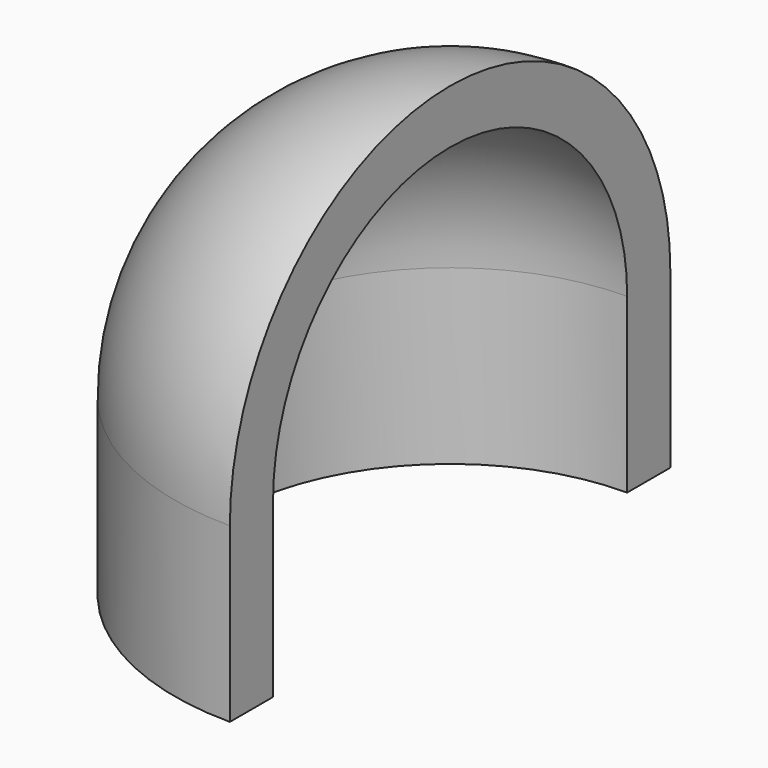
from build123d import *

# Parameters (mm, degrees)
F1_DEPTH      = 12.7
F3_ANGLE_BACK = 90
F3_ANGLE      = 180


with BuildPart() as f1:
    # F0 (on Top) → F1 (new body)
    with BuildSketch(Plane.XY):
        with BuildLine():
            Line((-28.6245663859, 16.271875), (-28.6245663859, 20.240625))
            ThreePointArc((-28.6245663859, 20.240625), (-48.8651913859, 0), (-28.6245663859, -20.240625))
            Line((-28.6245663859, -20.240625), (-28.6245663859, -16.271875))
            ThreePointArc((-28.6245663859, -16.271875), (-44.8964413859, 0), (-28.6245663859, 16.271875))
        make_face()
    extrude(amount=F1_DEPTH)

    # F2 (on Front) → F3 (revolve)
    with BuildSketch(Plane.XZ, mode=Mode.PRIVATE) as f3_sk:
        with BuildLine():
            Line((-28.6245663859, 28.971875), (-28.6245663859, 32.940625))
            ThreePointArc((-28.6245663859, 32.940625), (-42.9368495789, 27.012283193), (-48.8651913859, 12.7))
            Line((-48.8651913859, 12.7), (-44.8964413859, 12.7))
            ThreePointArc((-44.8964413859, 12.7), (-40.130519541, 24.2059531551), (-28.6245663859, 28.971875))
        make_face()
    revolve(f3_sk.sketch.rotate(Axis((-28.6245663859, 0, 22.8203125), (0, 0, -1)), -F3_ANGLE_BACK), axis=Axis((-28.6245663859, 0, 22.8203125), (0, 0, -1)), revolution_arc=F3_ANGLE)


solid = f1.part
